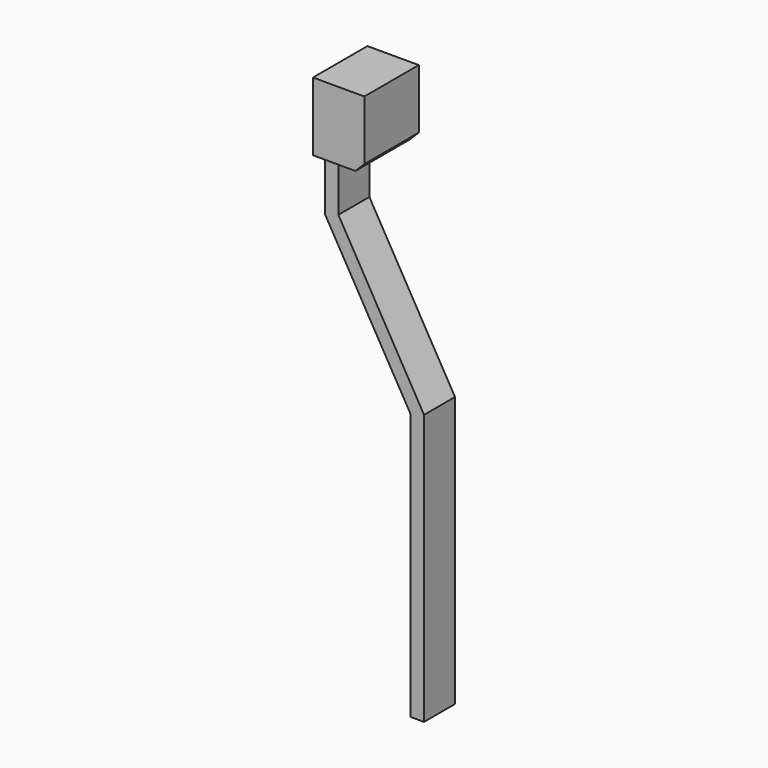
from build123d import *

# Parameters (mm, degrees)
F1_DEPTH = 2.15
F2_W     = 5.7
F2_H     = 7.6
F3_DEPTH = 1.65
F5_DEPTH = 1.6
F6_SIZE  = 1


with BuildPart() as f1:
    # F0 (on Front) → F1 (new body, symmetric)
    with BuildSketch(Plane.XZ):
        Polygon((-7.7040915435, 0), (-6.2040915435, 0), (-6.2040915435, 30), (-15.7040915435, 46.4544826719), (-15.7040915435, 52.4544826719), (-11.5040915435, 52.4544826719), (-11.5040915435, 60.0544826719), (-17.2040915435, 60.0544826719), (-17.2040915435, 46.0525588833), (-7.7040915435, 29.5980762114), align=None)
    extrude(amount=F1_DEPTH, both=True)

    # F2 (on face) + F1_face1 (on face) → F3 (join)
    with BuildSketch(Plane.XZ.offset(2.15)):
        with Locations((-14.3540915435, 56.2544826719)):
            Rectangle(F2_W, F2_H)
    with BuildSketch(Plane(origin=(-11.28016615, 2.15, 36.9237290057), x_dir=(1, 0, 0), z_dir=(0, 1, 0))):
        Polygon((5.0760746065, 36.9237290057), (3.5760746065, 36.9237290057), (3.5760746065, 7.3256527943), (-5.9239253935, -9.1288298776), (-5.9239253935, -23.1307536662), (-0.2239253935, -23.1307536662), (-0.2239253935, -15.5307536662), (-4.4239253935, -15.5307536662), (-4.4239253935, -9.5307536662), (5.0760746065, 6.9237290057), align=None)
    extrude(amount=F3_DEPTH, dir=(0, -1, 0))

    # F4 (on face) → F5 (join)
    with BuildSketch(Plane(origin=(0, 2.15, 0), x_dir=(-1, 0, 0), z_dir=(0, 1, 0))):
        Polygon((17.2040915435, 52.4544826719), (17.2040915435, 60.0544826719), (11.5040915435, 60.0544826719), (11.5040915435, 52.4544826719), (15.7040915435, 52.4544826719), align=None)
    extrude(amount=F5_DEPTH)

    # F6
    f6_edges = [f1.edges().sort_by_distance(p)[0] for p in [
        (-11.504092, -0.025, 52.454483),
    ]]
    chamfer(f6_edges, length=F6_SIZE)


solid = f1.part
